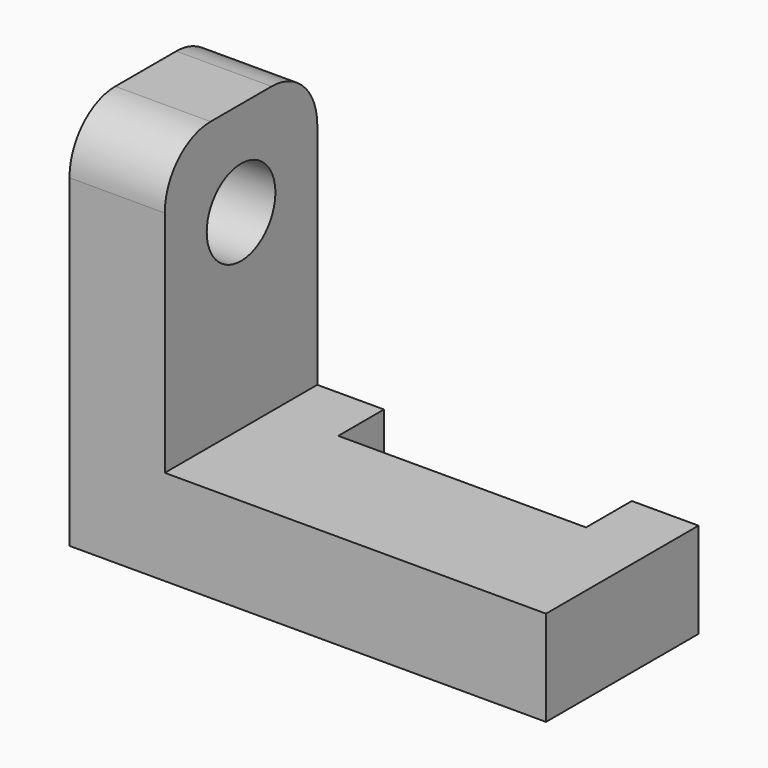
from build123d import *

# Parameters (mm, degrees)
F1_DEPTH = 5
F2_W     = 5
F2_H     = 10
F3_DEPTH = 15
F4_R     = 2.25
F5_DEPTH = 25
F6_R     = 3


with BuildPart() as f1:
    # F0 (on Top) → F1 (new body)
    with BuildSketch(Plane.XY):
        Polygon((-15.6191263039, -2.0692273974), (-15.6191263039, -12.0692273974), (9.3808736961, -12.0692273974), (9.3808736961, -2.0692273974), (5.8808736961, -2.0692273974), (5.8808736961, -5.0692273974), (-7.1191263039, -5.0692273974), (-7.1191263039, -2.0692273974), align=None)
        Polygon((-15.6191263039, -2.0692273974), (-15.6191263039, -12.0692273974), (9.3808736961, -12.0692273974), (9.3808736961, -2.0692273974), (5.8808736961, -2.0692273974), (5.8808736961, -5.0692273974), (-7.1191263039, -5.0692273974), (-7.1191263039, -2.0692273974), align=None)
    extrude(amount=F1_DEPTH)

    # F2 (on face) → F3 (join)
    with BuildSketch(Plane.XY.offset(5)):
        with Locations((-13.1191263039, -7.0692273974)):
            Rectangle(F2_W, F2_H)
    extrude(amount=F3_DEPTH)

    # F4 (on face) → F5 (cut)
    with BuildSketch(Plane(origin=(-15.6191263039, 0, 0), x_dir=(0, -1, 0), z_dir=(-1, 0, 0))):
        with Locations((7.0692273974, 15)):
            Circle(F4_R)
    extrude(amount=-F5_DEPTH, mode=Mode.SUBTRACT)

    # F6
    f6_edges = [f1.edges().sort_by_distance(p)[0] for p in [
        (-13.119126, -12.069227, 20),
        (-13.119126, -2.069227, 20),
    ]]
    fillet(f6_edges, radius=F6_R)


solid = f1.part
